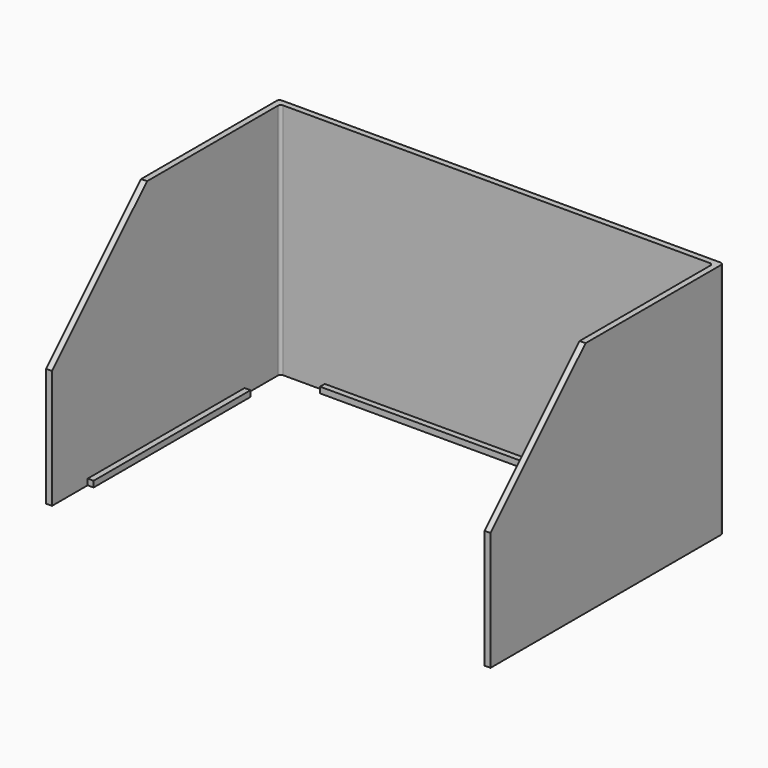
from build123d import *

# Parameters (mm, degrees)
PAD_DEPTH     = 101.6
SKETCH001_W   = 2.54
SKETCH001_H   = 83.8962
SKETCH001_W_2 = 12.7
SKETCH001_H_2 = 50.8
SKETCH001_W_3 = 146.9
SKETCH001_H_3 = 2.54
PAD001_DEPTH  = 2.54
CHAMFER_SIZE  = 50.8
FILLET_R      = 1.27


with BuildPart() as part:
    # Sketch → Pad (new body)
    with BuildSketch(Plane.XY):
        Polygon((-2.54, 2.54), (-2.54, -121.9962), (0, -121.9962), (0, 0), (185, 0), (185, -121.9962), (187.54, -121.9962), (187.54, 2.54), align=None)
    extrude(amount=PAD_DEPTH)

    # Sketch001 → Pad001 (join)
    with BuildSketch(Plane.XY):
        with Locations((1.27, -60.9981)):
            Rectangle(SKETCH001_W, SKETCH001_H)
        with Locations((178.65, -76.2)):
            Rectangle(SKETCH001_W_2, SKETCH001_H_2)
        with Locations((92.5, -1.27)):
            Rectangle(SKETCH001_W_3, SKETCH001_H_3)
    extrude(amount=PAD001_DEPTH)

    # Chamfer
    chamfer_edges = [part.edges().sort_by_distance(p)[0] for p in [
        (-1.27, -121.9962, 101.6),
        (186.27, -121.9962, 101.6),
    ]]
    chamfer(chamfer_edges, length=CHAMFER_SIZE)

    # Fillet
    fillet_edges = [part.edges().sort_by_distance(p)[0] for p in [
        (185, 0, 50.8),
        (0, 0, 50.8),
        (-2.54, 2.54, 50.8),
        (187.54, 2.54, 50.8),
    ]]
    fillet(fillet_edges, radius=FILLET_R)


solid = part.part
